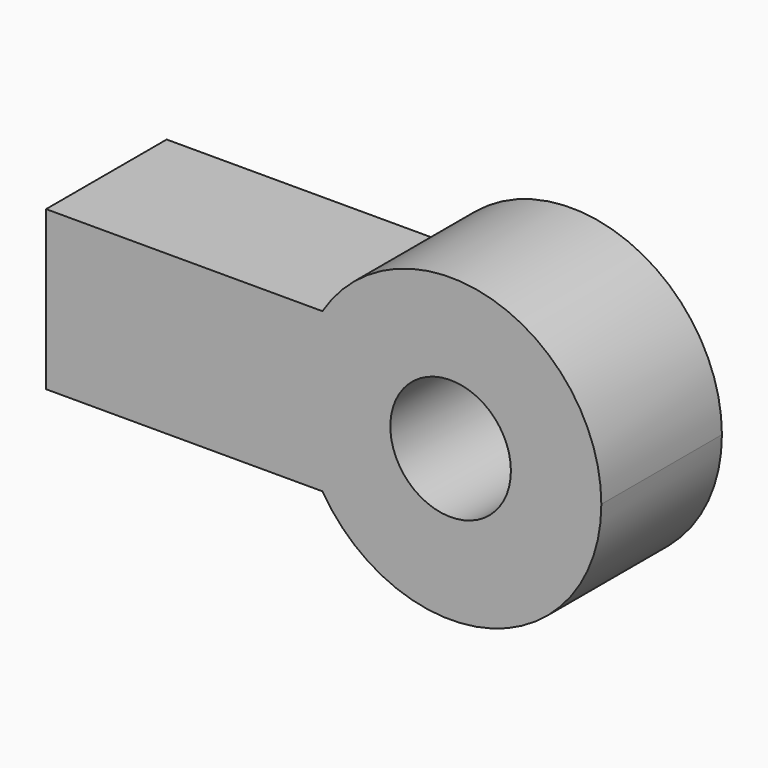
from build123d import *

# Parameters (mm, degrees)
F0_R     = 10
F1_DEPTH = 25


with BuildPart() as f1:
    # F0 (on Front) → F1 (new body)
    with BuildSketch(Plane.XZ):
        with BuildLine():
            Line((-17.164139, 13.151755), (-21.261029, 13.151755))
            ThreePointArc((-21.261029, 13.151755), (-25, 0), (-21.261029, -13.151755))
            Line((-21.261029, -13.151755), (-17.164139, -13.151755))
            Line((-17.164139, -13.151755), (-17.164139, 13.151755))
        make_face()
        with BuildLine():
            ThreePointArc((-21.261029, -13.151755), (-25, 0), (-21.261029, 13.151755))
            Line((-21.261029, 13.151755), (-67.096213, 13.151755))
            Line((-67.096213, 13.151755), (-67.096213, -13.151755))
            Line((-67.096213, -13.151755), (-21.261029, -13.151755))
        make_face()
        with BuildLine():
            ThreePointArc((-21.261029, -13.151755), (6.836457, -24.047097), (25, 0))
            ThreePointArc((25, 0), (6.836457, 24.047097), (-21.261029, 13.151755))
            Line((-21.261029, 13.151755), (-17.164139, 13.151755))
            Line((-17.164139, 13.151755), (-17.164139, -13.151755))
            Line((-17.164139, -13.151755), (-21.261029, -13.151755))
        make_face()
        Circle(F0_R, mode=Mode.SUBTRACT)
    extrude(amount=F1_DEPTH)


solid = f1.part
